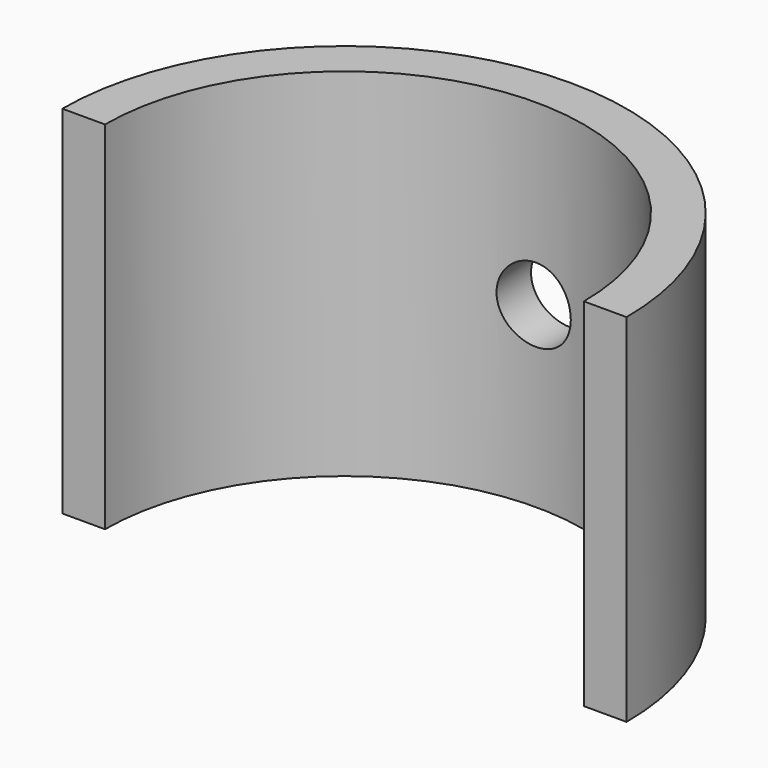
from build123d import *

# Parameters (mm, degrees)
F1_DEPTH = 24
F2_R     = 2.5
F3_DEPTH = 25


with BuildPart() as f1:
    # F0 (on Top) → F1 (new body)
    with BuildSketch(Plane.XY):
        with BuildLine():
            Line((16.125, 0), (19, 0))
            ThreePointArc((19, 0), (0, 19), (-19, 0))
            Line((-19, 0), (-16.125, 0))
            ThreePointArc((-16.125, 0), (0, 16.125), (16.125, 0))
        make_face()
    extrude(amount=F1_DEPTH)

    # F2 (on Front) → F3 (cut)
    with BuildSketch(Plane.XZ):
        with Locations((0, 12)):
            Circle(F2_R)
    extrude(amount=-F3_DEPTH, mode=Mode.SUBTRACT)


solid = f1.part
